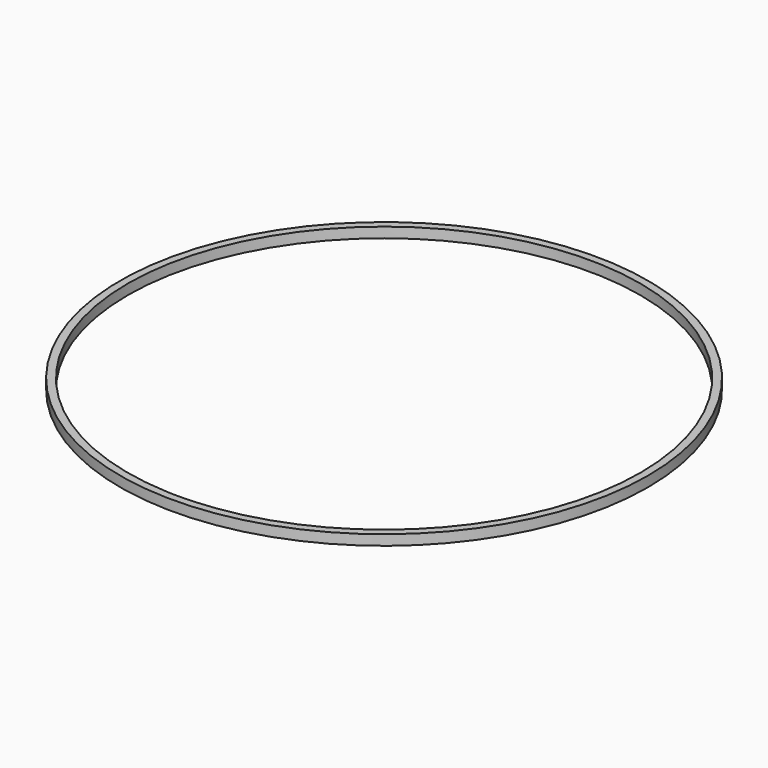
from build123d import *

# Parameters (mm, degrees)
F0_R     = 51.5
F1_DEPTH = 2


with BuildPart() as f1:
    # F0 (on Top) → F1 (new body)
    with BuildSketch(Plane.XY):
        Circle(F0_R)
        with BuildLine():
            ThreePointArc((-2.5, -49.9374608886), (-34.4601218802, 36.2284418655), (50, 0))
            ThreePointArc((50, 0), (36.2284418655, -34.4601218802), (2.5, -49.9374608886))
            ThreePointArc((2.5, -49.9374608886), (0, -50), (-2.5, -49.9374608886))
        make_face(mode=Mode.SUBTRACT)
    extrude(amount=F1_DEPTH)


solid = f1.part
